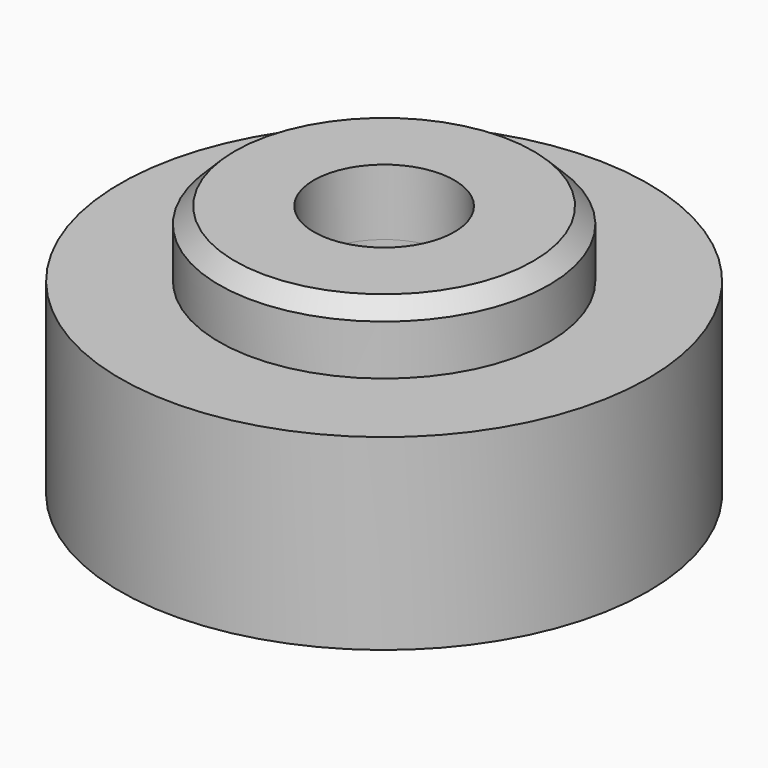
from build123d import *

# Parameters (mm, degrees)
F0_R     = 12.7
F1_DEPTH = 9.017
F2_R     = 7.9375
F3_DEPTH = 3.175
F4_SIZE  = 0.762
F5_R     = 10.16
F6_DEPTH = 2.1844
F8_DEPTH = 4.3688
F9_D     = 6.7564
F9_2_D   = 6.7564


with BuildPart() as f1:
    # F0 (on Top) → F1 (new body)
    with BuildSketch(Plane.XY):
        Circle(F0_R)
    extrude(amount=F1_DEPTH)

    # F5 (on face) → F6 (cut)
    with BuildSketch(Plane.XY):
        Circle(F5_R)
    extrude(amount=F6_DEPTH, mode=Mode.SUBTRACT)

    # F7 (on face) → F8 (cut)
    with BuildSketch(Plane.XY):
        Polygon((6.030932, 1.986955), (1.294713, 6.216418), (-4.736219, 4.229463), (-6.030932, -1.986955), (-1.294713, -6.216418), (4.736219, -4.229463), align=None)
    extrude(amount=F8_DEPTH, mode=Mode.SUBTRACT)

    # F9 (through all)
    with Locations(Plane(origin=(0, 0, 0), x_dir=(1, 0, 0), z_dir=(0, 0, -1))):
        with Locations((0, 0)):
            Hole(F9_D / 2)


with BuildPart() as f3:
    # F2 (on face) → F3 (new body)
    with BuildSketch(Plane.XY.offset(9.017)):
        Circle(F2_R)
    extrude(amount=F3_DEPTH)

    # F4
    f4_edges = [f3.edges().sort_by_distance(p)[0] for p in [
        (-7.9375, 0, 12.192),
    ]]
    chamfer(f4_edges, length=F4_SIZE)

    # F9#2 (through all)
    with Locations(Plane(origin=(0, 0, 0), x_dir=(1, 0, 0), z_dir=(0, 0, -1))):
        with Locations((0, 0)):
            Hole(F9_2_D / 2)


solid = Compound([f1.part, f3.part])
